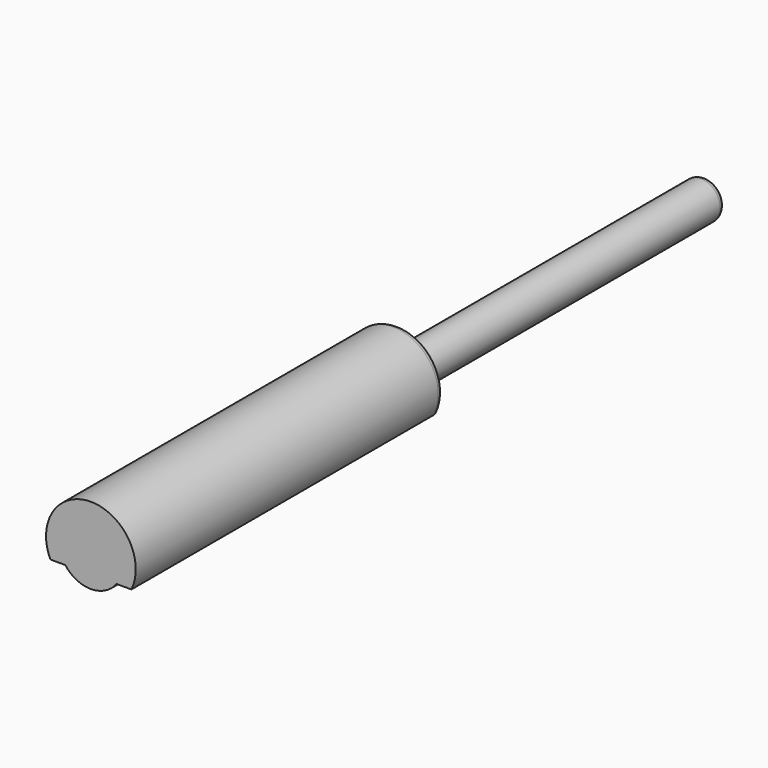
from build123d import *

# Parameters (mm, degrees)
PAD_DEPTH    = 60
SKETCH001_R  = 3
PAD001_DEPTH = 60
FILLET_R     = 1
FILLET001_R  = 1


with BuildPart() as part:
    # Sketch → Pad (new body)
    with BuildSketch(Plane.XZ):
        with BuildLine():
            ThreePointArc((-4, -3), (0, -5), (4, -3))
            Line((4, -3), (6.324555, -3))
            ThreePointArc((6.324555, -3), (0, 7), (-6.324555, -3))
            Line((-4, -3), (-6.324555, -3))
        make_face()
    extrude(amount=PAD_DEPTH)

    # Sketch001 → Pad001 (join)
    with BuildSketch(Plane.XZ):
        Circle(SKETCH001_R)
    extrude(amount=-PAD001_DEPTH)

    # Fillet
    fillet_edges = [part.edges().sort_by_distance(p)[0] for p in [
        (0, 0, 7),
        (0, 0, -5),
    ]]
    fillet(fillet_edges, radius=FILLET_R)

    # Fillet001
    fillet001_edges = [part.edges().sort_by_distance(p)[0] for p in [
        (-3, 60, 0),
    ]]
    fillet(fillet001_edges, radius=FILLET001_R)


solid = part.part
